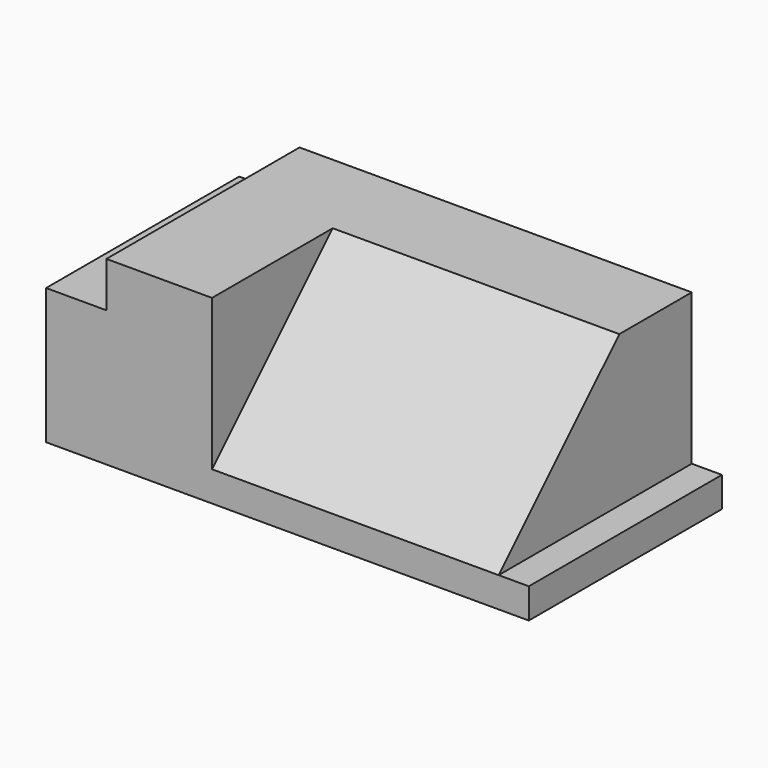
from build123d import *

# Parameters (mm, degrees)
F1_DEPTH = 101.6
F3_DEPTH = 120.65


with BuildPart() as f1:
    # F0 (on Front) → F1 (new body)
    with BuildSketch(Plane.XZ):
        Polygon((-101.6, 0), (0, 0), (101.6, 0), (101.6, 12.7), (88.9, 12.7), (88.9, 76.2), (-76.2, 76.2), (-76.2, 57.15), (-101.6, 57.15), align=None)
    extrude(amount=F1_DEPTH)

    # F2 (on face) → F3 (cut)
    with BuildSketch(Plane.YZ.offset(88.9)):
        Polygon((-101.6, 76.2), (-101.6, 12.7), (-38.1, 76.2), align=None)
    extrude(amount=-F3_DEPTH, mode=Mode.SUBTRACT)


solid = f1.part
